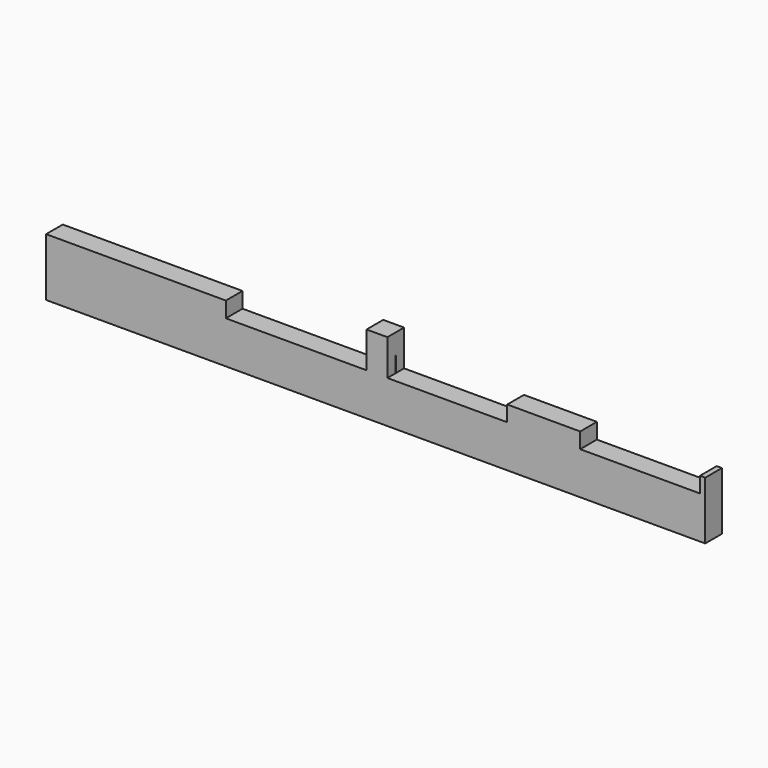
from build123d import *

# Parameters (mm, degrees)
F0_W     = 3450
F0_H     = 300
F0_W_2   = 400
F0_H_2   = 689.478278
F0_W_3   = 100
F0_W_4   = 1400
F1_DEPTH = 400
F2_R     = 5
F3_DEPTH = 300


with BuildPart() as f1:
    # F0 (on Front) → F1 (new body)
    with BuildSketch(Plane.XZ):
        with Locations((-4600, 150)):
            Rectangle(F0_W, F0_H)
        Polygon((-2875, 0), (-6325, 0), (-6325, -812.372148), (6325, -812.372148), (6325, 0), (6225, 0), (3925, 0), (2525, 0), (225, 0), (-175, 0), align=None)
        with Locations((25, 344.739139)):
            Rectangle(F0_W_2, F0_H_2)
        with Locations((6275, 150)):
            Rectangle(F0_W_3, F0_H)
        with Locations((3225, 150)):
            Rectangle(F0_W_4, F0_H)
    extrude(amount=F1_DEPTH)

    # F2 (on face) → F3 (join, through all)
    with BuildSketch(Plane.XY):
        with Locations((225, -200)):
            Circle(F2_R)
        with Locations((6225, -200)):
            Circle(F2_R)
    extrude(amount=F3_DEPTH)


solid = f1.part
